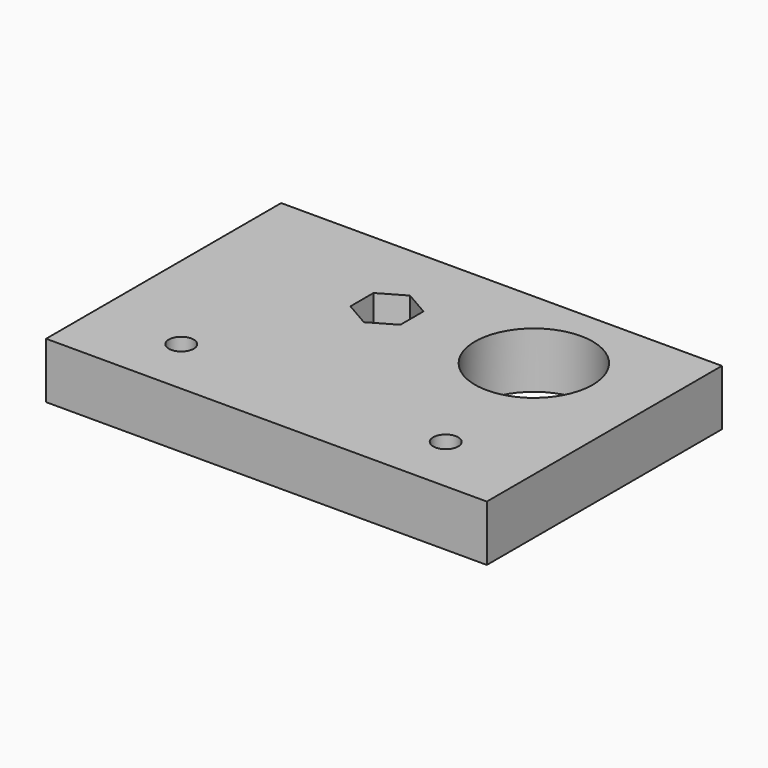
from build123d import *

# Parameters (mm, degrees)
F0_W     = 150
F0_H     = 100
F0_R     = 4.25
F0_R_2   = 20
F1_DEPTH = 19


with BuildPart() as f1:
    # F0 (on Top) → F1 (new body)
    with BuildSketch(Plane.XY):
        with Locations((-1.584128, 10.141134)):
            Rectangle(F0_W, F0_H)
        with Locations((-46.584128, -19.858866)):
            Circle(F0_R, mode=Mode.SUBTRACT)
        with Locations((43.415872, -19.858866)):
            Circle(F0_R, mode=Mode.SUBTRACT)
        Polygon((-16.584128, 39.956088), (-8.084128, 35.048611), (-8.084128, 25.233657), (-16.584128, 20.326179), (-25.084128, 25.233657), (-25.084128, 35.048611), align=None, mode=Mode.SUBTRACT)
        with Locations((33.415872, 30.141134)):
            Circle(F0_R_2, mode=Mode.SUBTRACT)
    extrude(amount=F1_DEPTH)


solid = f1.part
